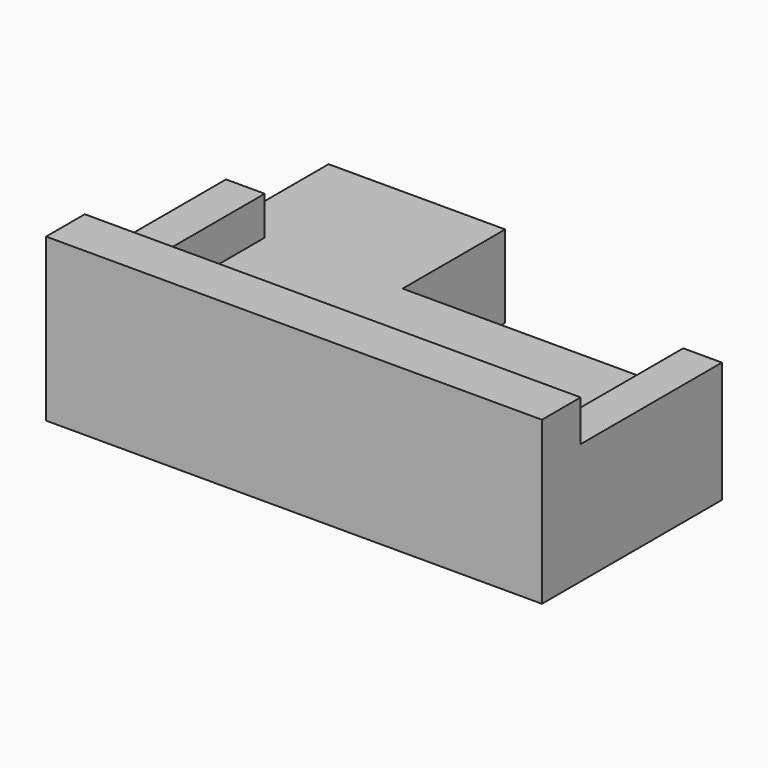
from build123d import *

# Parameters (mm, degrees)
F1_DEPTH = 431.8
F2_W     = 2603.5
F2_H     = 254
F3_DEPTH = 419.1
F4_W     = 203.2
F4_H     = 927.1
F5_DEPTH = 203.2


with BuildPart() as f1:
    # F0 (on Top) → F1 (new body)
    with BuildSketch(Plane.XY):
        Polygon((-374.65, 1263.65), (-1301.75, 1263.65), (-1301.75, -590.55), (1301.75, -590.55), (1301.75, 590.55), (-374.65, 590.55), align=None)
    extrude(amount=F1_DEPTH)

    # F2 (on face) → F3 (join)
    with BuildSketch(Plane.XY.offset(431.8)):
        with Locations((0, -463.55)):
            Rectangle(F2_W, F2_H)
    extrude(amount=F3_DEPTH)

    # F4 (on face) → F5 (join)
    with BuildSketch(Plane.XY.offset(431.8)):
        with Locations((1200.15, 127)):
            Rectangle(F4_W, F4_H)
        with Locations((-1200.15, 127)):
            Rectangle(F4_W, F4_H)
    extrude(amount=F5_DEPTH)


solid = f1.part
